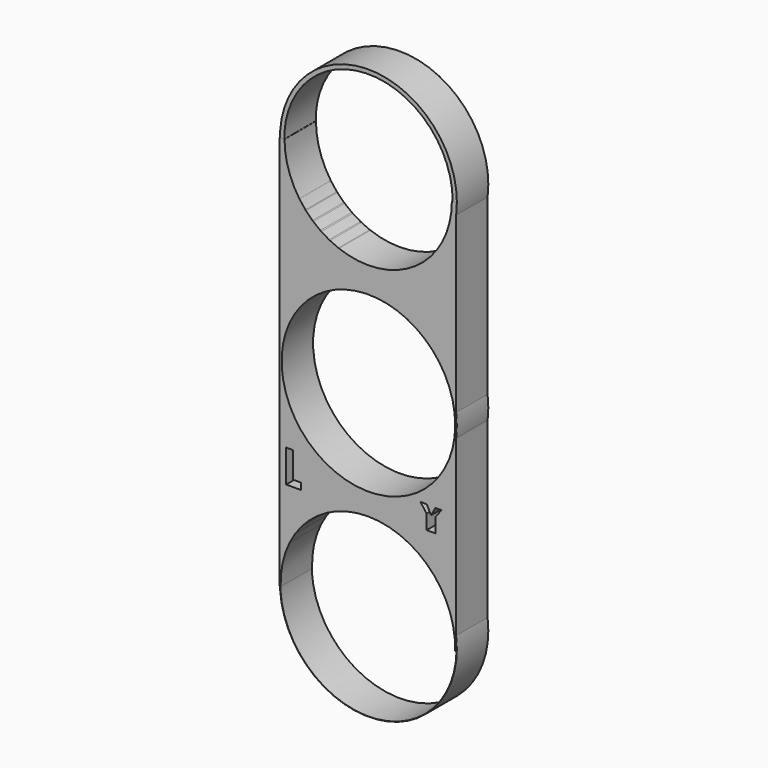
from build123d import *

# Parameters (mm, degrees)
F0_R      = 11.25
F1_DEPTH  = 5
F2_R      = 10.714565
F3_DEPTH  = 25
F4_R      = 11.2145
F5_DEPTH  = 25
F6_R      = 11.2145
F7_DEPTH  = 25
F8_W      = 22.440505
F8_H      = 50.249798
F9_DEPTH  = 5
F11_DEPTH = 25
F12_R     = 11.039659
F13_DEPTH = 25
F15_DEPTH = 25
F17_DEPTH = 25
F19_DEPTH = 25


with BuildPart() as f1:
    # F0 (on Front) → F1 (new body)
    with BuildSketch(Plane.XZ):
        with Locations((0, 25)):
            Circle(F0_R)
        Circle(F0_R)
        with Locations((0, -25)):
            Circle(F0_R)
    extrude(amount=F1_DEPTH)

    # F2 (on face) → F3 (cut)
    with BuildSketch(Plane.XZ.offset(5)):
        with Locations((0, 25)):
            Circle(F2_R)
    extrude(amount=-F3_DEPTH, mode=Mode.SUBTRACT)

    # F4 (on face) → F5 (cut)
    with BuildSketch(Plane.XZ.offset(5)):
        Circle(F4_R)
    extrude(amount=-F5_DEPTH, mode=Mode.SUBTRACT)

    # F6 (on face) → F7 (cut)
    with BuildSketch(Plane.XZ.offset(5)):
        with Locations((0, -25)):
            Circle(F6_R)
    extrude(amount=-F7_DEPTH, mode=Mode.SUBTRACT)


with BuildPart() as f9:
    # F8 (on Front) → F9 (new body)
    with BuildSketch(Plane.XZ):
        with Locations((-0.068217, -0.172931)):
            Rectangle(F8_W, F8_H)
    extrude(amount=F9_DEPTH)

    # F10 (on face) → F11 (cut)
    with BuildSketch(Plane.XZ.offset(5)):
        with BuildLine():
            Line((10.61618, 24.951968), (-10.673006, 24.951968))
            ThreePointArc((-10.673006, 24.951968), (-0.028413, 14.307375), (10.61618, 24.951968))
        make_face()
    extrude(amount=-F11_DEPTH, mode=Mode.SUBTRACT)

    # F12 (on face) → F13 (cut)
    with BuildSketch(Plane.XZ.offset(5)):
        Circle(F12_R)
    extrude(amount=-F13_DEPTH, mode=Mode.SUBTRACT)

    # F14 (on face) → F15 (cut)
    with BuildSketch(Plane.XZ.offset(5)):
        with BuildLine():
            Line((-11.165318, -25.29783), (11.017901, -25.29783))
            ThreePointArc((11.017901, -25.29783), (-0.073709, -13.822976), (-11.165318, -25.29783))
        make_face()
    extrude(amount=-F15_DEPTH, mode=Mode.SUBTRACT)

    # F16 (on face) → F17 (cut)
    with BuildSketch(Plane.XZ.offset(5)):
        Polygon((-9.596423, -9.50045), (-10.465668, -9.50045), (-10.465668, -13.649115), (-8.569135, -13.649115), (-8.569135, -12.819382), (-9.596423, -12.819382), align=None)
    extrude(amount=-F17_DEPTH, mode=Mode.SUBTRACT)

    # F18 (on face) → F19 (cut)
    with BuildSketch(Plane.XZ.offset(5)):
        Polygon((7.405112, -10.035326), (6.622832, -10.035326), (7.405112, -11.096991), (7.405112, -12.940936), (8.522655, -12.940936), (8.522655, -11.096991), (9.304934, -10.091203), (8.522655, -10.091203), (7.963884, -11.096991), align=None)
    extrude(amount=-F19_DEPTH, mode=Mode.SUBTRACT)


solid = Compound([f1.part, f9.part])
